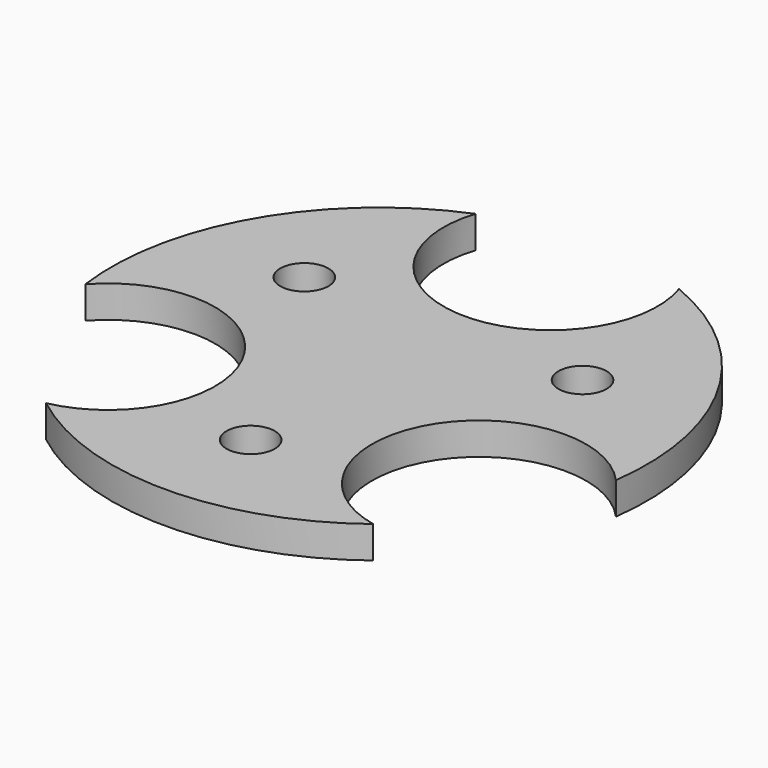
from build123d import *

# Parameters (mm, degrees)
F0_R     = 25
F1_DEPTH = 3
F2_R     = 2.25
F3_DEPTH = 25
F4_R     = 10
F5_DEPTH = 25


with BuildPart() as f1:
    # F0 (on Top) → F1 (new body)
    with BuildSketch(Plane.XY):
        Circle(F0_R)
    extrude(amount=F1_DEPTH)

    # F2 (on face) → F3 (cut)
    with BuildSketch(Plane.XY.offset(3)):
        with Locations((0, 15)):
            Circle(F2_R)
        with Locations((-12.990381, 7.5)):
            Circle(F2_R)
        with Locations((-12.990381, -7.5)):
            Circle(F2_R)
        with Locations((0, -15)):
            Circle(F2_R)
        with Locations((12.990381, -7.5)):
            Circle(F2_R)
        with Locations((12.990381, 7.5)):
            Circle(F2_R)
    extrude(amount=-F3_DEPTH, mode=Mode.SUBTRACT)

    # F4 (on face) → F5 (cut)
    with BuildSketch(Plane.XY.offset(3)):
        with Locations((0, 20)):
            Circle(F4_R)
        with Locations((-17.320508, -10)):
            Circle(F4_R)
        with Locations((17.320508, -10)):
            Circle(F4_R)
    extrude(amount=-F5_DEPTH, mode=Mode.SUBTRACT)


solid = f1.part
